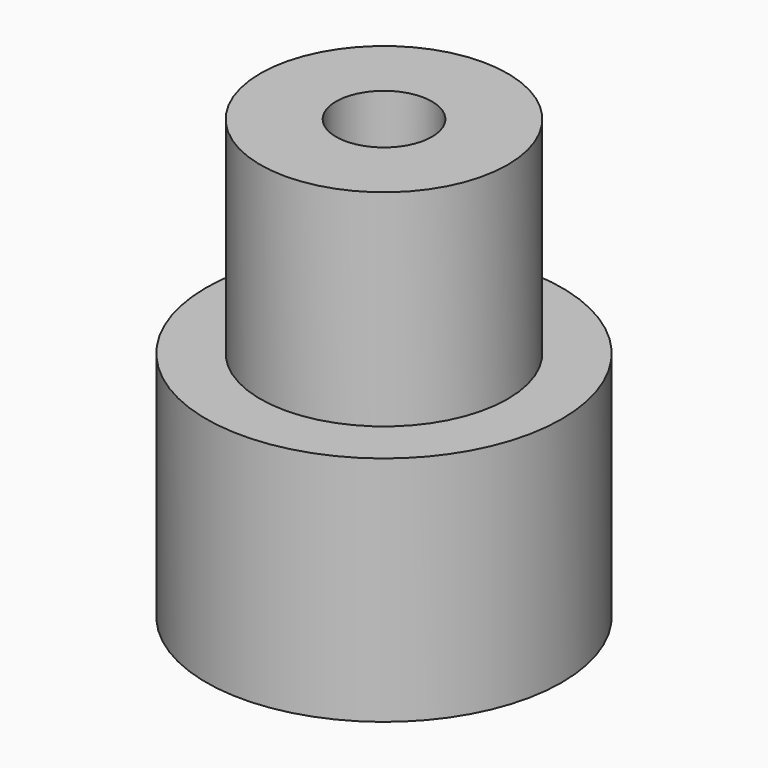
from build123d import *

# Parameters (mm, degrees)
CYLINDER003012_R     = 0.93
CYLINDER003012_DEPTH = 20
CYLINDER003013_R     = 2.4
CYLINDER003013_DEPTH = 4.5
CYLINDER003014_R     = 3.45
CYLINDER003014_DEPTH = 4.5


with BuildPart() as cylinder013:
    # Cylinder003012 → Cylinder003012 (new body)
    with BuildSketch(Plane(origin=(11, 10, -8), x_dir=(1, 0, 0), z_dir=(0, 0, 1))):
        Circle(CYLINDER003012_R)
    extrude(amount=CYLINDER003012_DEPTH)


with BuildPart() as cylinder014:
    # Cylinder003013 → Cylinder003013 (new body)
    with BuildSketch(Plane(origin=(11, 10, -0.5), x_dir=(1, 0, 0), z_dir=(0, 0, 1))):
        Circle(CYLINDER003013_R)
    extrude(amount=CYLINDER003013_DEPTH)


with BuildPart() as propeller_hub:
    # Cylinder003014 → Cylinder003014 (new body)
    with BuildSketch(Plane(origin=(11, 10, -4.5), x_dir=(1, 0, 0), z_dir=(0, 0, 1))):
        Circle(CYLINDER003014_R)
    extrude(amount=CYLINDER003014_DEPTH)

    # Fusion001: union Cylinder014
    add(cylinder014.part)

    # Cut002002002018: cut Cylinder013
    add(cylinder013.part, mode=Mode.SUBTRACT)


solid = propeller_hub.part
